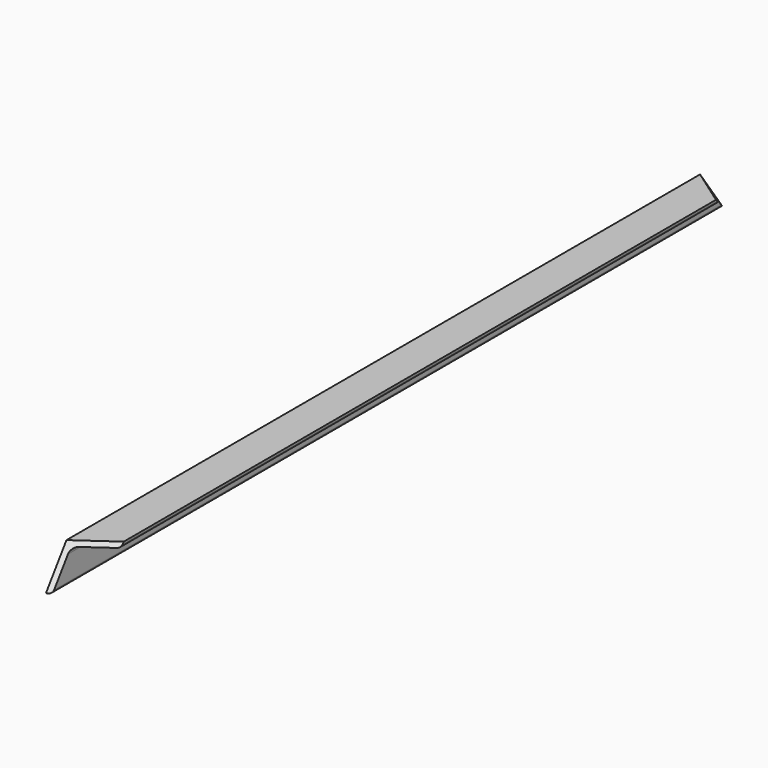
from build123d import *

# Parameters (mm, degrees)
F1_DEPTH  = 1154
F7_DEPTH  = 45
F9_DEPTH  = 45
F11_W     = 4.8190290108
F11_H     = 1158.3167838398
F12_DEPTH = 0.5


with BuildPart() as f1:
    # F0 (on Front) → F1 (new body)
    with BuildSketch(Plane.XZ):
        with BuildLine():
            Line((-9.4517558242, 28.4011573891), (-9.4517558242, -21.5988426109))
            Line((-9.4517558242, -21.5988426109), (-6.9517558242, -21.5988426109))
            ThreePointArc((-6.9517558242, -21.5988426109), (-4.47688209, -20.5737163451), (-3.4517558242, -18.0988426109))
            Line((-3.4517558242, -18.0988426109), (-3.4517558242, 15.4011573891))
            ThreePointArc((-3.4517558242, 15.4011573891), (-1.4015032925, 20.3509048574), (3.5482441758, 22.4011573891))
            Line((3.5482441758, 22.4011573891), (37.0482441758, 22.4011573891))
            ThreePointArc((37.0482441758, 22.4011573891), (39.52311791, 23.4262836549), (40.5482441758, 25.9011573891))
            Line((40.5482441758, 25.9011573891), (40.5482441758, 28.4011573891))
            Line((40.5482441758, 28.4011573891), (-9.4517558242, 28.4011573891))
        make_face()
    extrude(amount=F1_DEPTH)

    # F6 (on 3pt) → F7 (cut)
    with BuildSketch(Plane(origin=(8.0484171275, 0, -8.0484171275), x_dir=(0, -1, 0), z_dir=(-0.7071067812, 0, 0.7071067812))):
        Polygon((0, 48.7545894053), (0, -21.9560887134), (70.7106781187, 48.7545894053), align=None)
    extrude(amount=F7_DEPTH, mode=Mode.SUBTRACT)

    # F8 (on 3pt) → F9 (cut)
    with BuildSketch(Plane(origin=(8.0484171275, 0, -8.0484171275), x_dir=(0, -1, 0), z_dir=(-0.7071067812, 0, 0.7071067812))):
        Polygon((1083.2893218813, 48.7545894053), (1154, -21.9560887134), (1154, 48.7545894053), align=None)
    extrude(amount=F9_DEPTH, mode=Mode.SUBTRACT)

    # F11 (on face) → F12 (cut)
    with BuildSketch(Plane(origin=(-15.5252992176, 0, -15.5252992176), x_dir=(0.7071067812, 0, -0.7071067812), z_dir=(-0.7071067812, 0, -0.7071067812))):
        with Locations((8.6135719903, 577.1591997473)):
            Rectangle(F11_W, F11_H)
    extrude(amount=-F12_DEPTH, mode=Mode.SUBTRACT)


solid = f1.part
